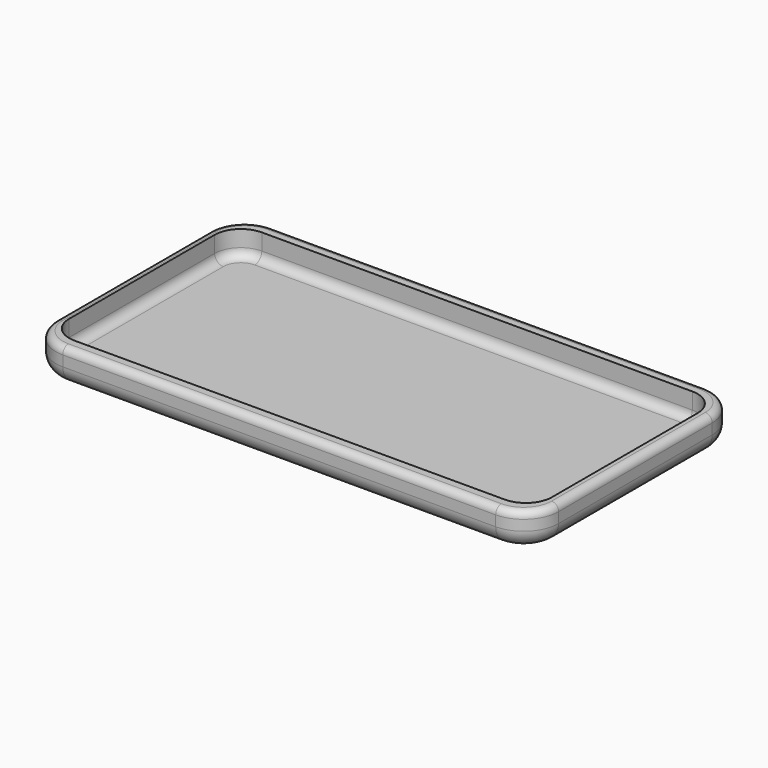
from build123d import *

# Parameters (mm, degrees)
F0_W     = 144
F0_H     = 72
F1_DEPTH = 10
F3_DEPTH = 3
F2_W     = 138.3
F2_H     = 67.1
F4_DEPTH = 7.2
F5_R     = 7.5
F6_R     = 2.5
F7_R     = 10
F8_R     = 2
F9_R     = 5


with BuildPart() as f1:
    # F0 (on Top) → F1 (new body)
    with BuildSketch(Plane.XY):
        with Locations((-65.7520391978, -7.4041044508)):
            Rectangle(F0_W, F0_H)
    extrude(amount=F1_DEPTH)

    # F3 (add): a face of the model
    f3_faces = [f1.faces().sort_by_distance(p)[0] for p in [
        (-65.7520391978, 28.5958955492, 5),
    ]]
    extrude(f3_faces, amount=F3_DEPTH)

    # F2 (on face) → F4 (cut)
    with BuildSketch(Plane.XY.offset(10)):
        with Locations((-66.0260241712, -5.8019728968)):
            Rectangle(F2_W, F2_H)
    extrude(amount=-F4_DEPTH, mode=Mode.SUBTRACT)

    # F5
    f5_edges = [f1.edges().sort_by_distance(p)[0] for p in [
        (-135.176024, 27.748027, 6.4),
        (-135.176024, -39.351973, 6.4),
        (3.123976, -39.351973, 6.4),
        (3.123976, 27.748027, 6.4),
    ]]
    fillet(f5_edges, radius=F5_R)

    # F6
    f6_edges = [f1.edges().sort_by_distance(p)[0] for p in [
        (-66.026024, 27.748027, 2.8),
    ]]
    fillet(f6_edges, radius=F6_R)

    # F7
    f7_edges = [f1.edges().sort_by_distance(p)[0] for p in [
        (-137.752039, -43.404104, 5),
        (6.247961, -43.404104, 5),
        (6.247961, 31.595896, 5),
        (-137.752039, 31.595896, 5),
    ]]
    fillet(f7_edges, radius=F7_R)

    # F8
    f8_edges = [f1.edges().sort_by_distance(p)[0] for p in [
        (-65.752039, -43.404104, 10),
        (-65.752039, 31.595896, 10),
        (-137.752039, -5.904104, 10),
    ]]
    fillet(f8_edges, radius=F8_R)

    # F9
    f9_edges = [f1.edges().sort_by_distance(p)[0] for p in [
        (-65.752039, -43.404104, 0),
        (-134.823107, -40.475172, 0),
        (3.319029, -40.475172, 0),
        (-137.752039, -5.904104, 0),
        (6.247961, -5.904104, 0),
        (-134.823107, 28.666963, 0),
        (3.319029, 28.666963, 0),
        (-65.752039, 31.595896, 0),
    ]]
    fillet(f9_edges, radius=F9_R)


solid = f1.part
